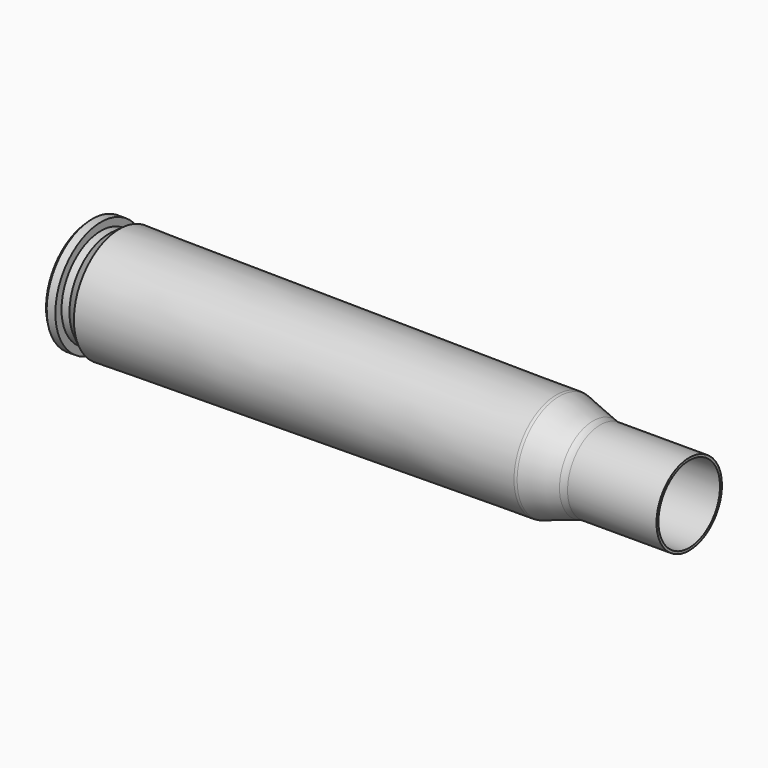
from build123d import *


with BuildPart() as f1:
    # F0 (on Front) → F1 (revolve)
    with BuildSketch(Plane.XZ):
        with BuildLine():
            ThreePointArc((0.762, -2.667), (0.223185, -2.890185), (0, -3.429))
            Line((0, -3.429), (0, -5.6896))
            Line((0, -5.6896), (0.3302, -6.0198))
            Line((0.3302, -6.0198), (1.2446, -6.0198))
            Line((1.2446, -6.0198), (1.2446, -5.207))
            Line((1.2446, -5.207), (2.0828, -5.207))
            Line((2.0828, -5.207), (3.2004, -6.0198))
            Line((3.2004, -6.0198), (49.328307, -5.602066))
            ThreePointArc((49.328307, -5.602066), (49.477463, -5.589691), (49.623182, -5.555538))
            Line((49.623182, -5.555538), (53.197421, -4.434426))
            ThreePointArc((53.197421, -4.434426), (53.573084, -4.347275), (53.95761, -4.318))
            Line((53.95761, -4.318), (63.3476, -4.318))
            Line((63.3476, -4.318), (63.3476, -4.064))
            Line((63.3476, -4.064), (53.95761, -4.064))
            ThreePointArc((53.95761, -4.064), (53.534631, -4.096203), (53.121402, -4.192068))
            Line((53.121402, -4.192068), (49.547163, -5.31318))
            Line((49.547163, -5.31318), (49.326007, -5.348077))
            Line((49.326007, -5.348077), (5.927399, -5.186316))
            ThreePointArc((5.927399, -5.186316), (5.032435, -4.812675), (4.662133, -3.916325))
            Line((4.662133, -3.916325), (4.662133, -0.4064))
            Line((4.662133, -0.4064), (3.163533, -0.4064))
            Line((3.163533, -0.4064), (3.163533, -2.667))
            Line((3.163533, -2.667), (0.762, -2.667))
        make_face()
    revolve(axis=Axis((24.7396, 0, 0), (1, 0, 0)))


solid = f1.part
